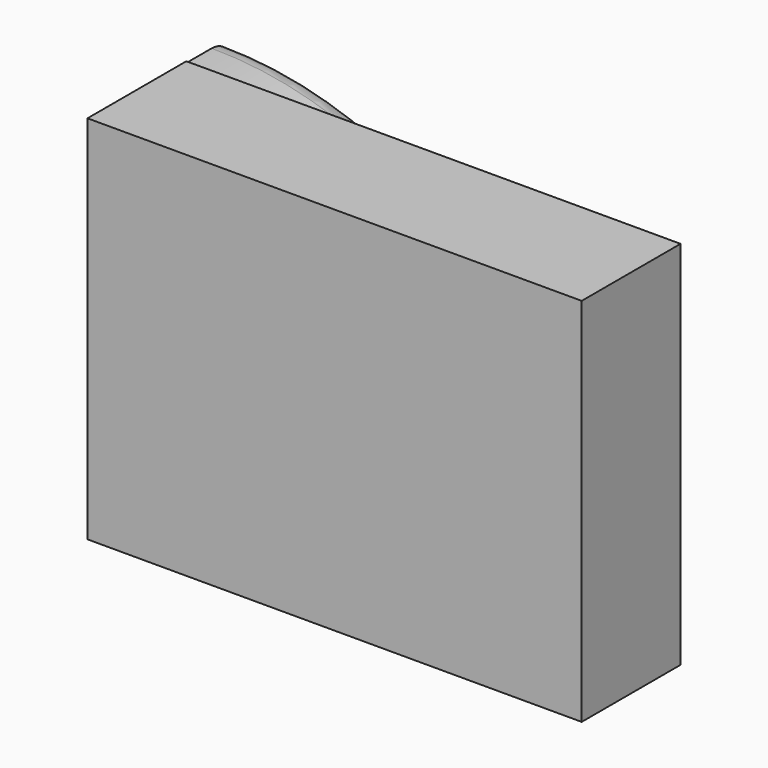
from build123d import *

# Parameters (mm, degrees)
F1_DEPTH = 12.7
F2_W     = 13.1709426641
F2_H     = 11.6029726341
F4_DEPTH = 25.4
F5_DEPTH = 12.7
F6_R     = 5.08


with BuildPart() as f1:
    # F0 (on Front) → F1 (new body)
    with BuildSketch(Plane.XZ):
        with BuildLine():
            Line((0, 76.2), (0, 0))
            Line((0, 0), (76.2, 0))
            ThreePointArc((76.2, 0), (53.8815367264, 53.8815367264), (0, 76.2))
        make_face()
        with BuildLine():
            ThreePointArc((0, 76.2), (53.8815367264, 53.8815367264), (76.2, 0))
            Line((76.2, 0), (101.6, 0))
            Line((101.6, 0), (101.6, 76.2))
            Line((101.6, 76.2), (0, 76.2))
        make_face()
    extrude(amount=F1_DEPTH)

    # F0 (on Front) → F4 (join)
    with BuildSketch(Plane.XZ):
        with BuildLine():
            ThreePointArc((0, 76.2), (53.8815367264, 53.8815367264), (76.2, 0))
            Line((76.2, 0), (101.6, 0))
            Line((101.6, 0), (101.6, 76.2))
            Line((101.6, 76.2), (0, 76.2))
        make_face()
    extrude(amount=F4_DEPTH)

    # F5 (add): a face of the model
    f5_faces = [f1.faces().sort_by_distance(p)[0] for p in [
        (32.3402844363, -12.7, 32.3402844363),
    ]]
    extrude(f5_faces, amount=F5_DEPTH)


with BuildPart() as f3:
    # F3: sweep along a path in F0
    with BuildLine(Plane.XZ) as f3_path:
        ThreePointArc((76.2, 0), (53.8815367264, 53.8815367264), (0, 76.2))
    # F2 (on Top) → F3 (sweep)
    with BuildSketch(Plane.XY):
        with Locations((69.3042650819, 5.8014863171)):
            Rectangle(F2_W, F2_H)
    sweep(path=f3_path.line)

    # F6
    f6_edges = [f3.edges().sort_by_distance(p)[0] for p in [
        (53.662147, 11.602973, 53.662147),
        (44.348884, 11.602973, 44.348884),
    ]]
    fillet(f6_edges, radius=F6_R)


solid = Compound([f1.part, f3.part])
